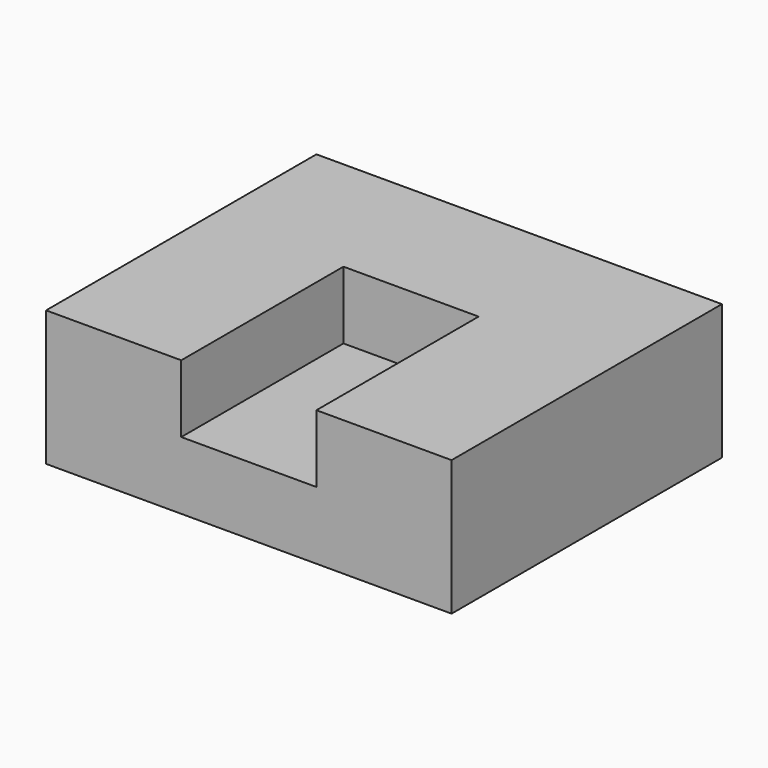
from build123d import *

# Parameters (mm, degrees)
F1_DEPTH = 63.5
F2_W     = 25.4
F2_H     = 12.7
F3_DEPTH = 38.1


with BuildPart() as f1:
    # F0 (on Front) → F1 (new body)
    with BuildSketch(Plane.XZ):
        Polygon((50.8, 12.7), (0, 12.7), (-25.4, 12.7), (-25.4, 0), (-25.4, -12.7), (50.8, -12.7), (50.8, 0), align=None)
    extrude(amount=-F1_DEPTH)

    # F2 (on face) → F3 (cut)
    with BuildSketch(Plane.XZ):
        with Locations((12.7, 6.35)):
            Rectangle(F2_W, F2_H)
    extrude(amount=-F3_DEPTH, mode=Mode.SUBTRACT)


solid = f1.part
